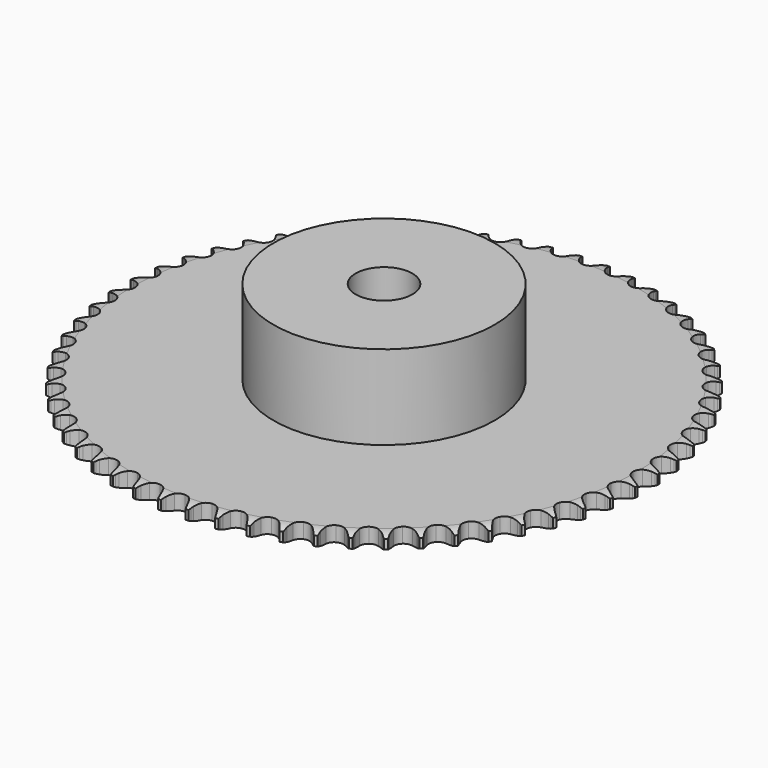
from build123d import *

# Parameters (mm, degrees)
PAD_DEPTH         = 5.3
SKETCH001_R       = 39
PAD001_DEPTH      = 35
SKETCH002_R       = 10
POCKET_DEPTH      = 0.001
POCKET_DEPTH_BACK = 35.001


with BuildPart() as part:
    # Sprocket → Pad (new body)
    with BuildSketch(Plane.XY):
        with BuildLine():
            ThreePointArc((-4.912376, 93.733715), (-4.417478, 92.997579), (-4.057731, 92.186775))
            Line((-4.057731, 92.186775), (-3.749626, 91.288578))
            ThreePointArc((-3.749626, 91.288578), (-3.262575, 90.152204), (-2.612296, 89.10068))
            ThreePointArc((-2.612296, 89.10068), (-1.465924, 88.121586), (0, 87.769649))
            ThreePointArc((0, 87.769649), (1.465924, 88.121586), (2.612296, 89.10068))
            ThreePointArc((2.612296, 89.10068), (3.262575, 90.152204), (3.749626, 91.288578))
            Line((3.749626, 91.288578), (4.057731, 92.186775))
            ThreePointArc((4.057731, 92.186775), (4.417478, 92.997579), (4.912376, 93.733715))
            ThreePointArc((4.912376, 93.733715), (5.327616, 92.949881), (5.600639, 92.105914))
            Line((5.600639, 92.105914), (5.81317, 91.180433))
            ThreePointArc((5.81317, 91.180433), (6.178769, 89.999373), (6.715572, 88.885636))
            ThreePointArc((6.715572, 88.885636), (7.75332, 87.792078), (9.174427, 87.288838))
            ThreePointArc((9.174427, 87.288838), (10.669107, 87.485616), (11.911542, 88.339518))
            Line((11.911542, 88.339518), (13.27134, 90.396547))
            ThreePointArc((13.27134, 90.396547), (13.459182, 90.832806), (13.671645, 91.257618))
            ThreePointArc((13.671645, 91.257618), (14.114172, 92.026376), (14.683307, 92.706749))
            ThreePointArc((14.683307, 92.706749), (15.014339, 91.883804), (15.197648, 91.015922))
            Line((15.197648, 91.015922), (15.312275, 90.073295))
            ThreePointArc((15.312275, 90.073295), (15.552417, 88.860489), (15.969862, 87.696743))
            ThreePointArc((15.969862, 87.696743), (16.887618, 86.500701), (18.248336, 85.851672))
            ThreePointArc((18.248336, 85.851672), (19.755398, 85.891135), (21.080284, 86.61049))
            Line((21.080284, 86.61049), (22.64765, 88.514113))
            ThreePointArc((22.64765, 88.514113), (22.880064, 88.928346), (23.135768, 89.328623))
            ThreePointArc((23.135768, 89.328623), (23.656229, 90.046913), (24.293364, 90.664068))
            ThreePointArc((24.293364, 90.664068), (24.536561, 89.811029), (24.628148, 88.928741))
            Line((24.628148, 88.928741), (24.643616, 87.979296))
            ThreePointArc((24.643616, 87.979296), (24.75567, 86.748032), (25.049184, 85.547026))
            ThreePointArc((25.049184, 85.547026), (25.836891, 84.261604), (27.122313, 83.473897))
            ThreePointArc((27.122313, 83.473897), (28.625244, 83.355613), (30.018065, 83.932539))
            Line((30.018065, 83.932539), (31.775828, 85.661899))
            ThreePointArc((31.775828, 85.661899), (32.050268, 86.04957), (32.346412, 86.420925))
            ThreePointArc((32.346412, 86.420925), (32.939103, 87.080878), (33.637258, 87.628053))
            ThreePointArc((33.637258, 87.628053), (33.789956, 86.754266), (33.788817, 85.867237))
            Line((33.788817, 85.867237), (33.704956, 84.921376))
            ThreePointArc((33.704956, 84.921376), (33.687694, 83.685145), (33.854061, 82.460038))
            ThreePointArc((33.854061, 82.460038), (34.50309, 81.09932), (35.699132, 80.181564))
            ThreePointArc((35.699132, 80.181564), (37.181466, 79.90683), (38.626962, 80.335005))
            Line((38.626962, 80.335005), (40.555864, 81.871156))
            ThreePointArc((40.555864, 81.871156), (40.869323, 82.228016), (41.202661, 82.566381))
            ThreePointArc((41.202661, 82.566381), (41.86109, 83.160766), (42.612615, 83.631966))
            ThreePointArc((42.612615, 83.631966), (42.673141, 82.747005), (42.579289, 81.864955))
            Line((42.579289, 81.864955), (42.397018, 80.933041))
            ThreePointArc((42.397018, 80.933041), (42.250629, 79.705386), (42.288026, 78.4696))
            ThreePointArc((42.288026, 78.4696), (42.791266, 77.048494), (43.884824, 76.010746))
            ThreePointArc((43.884824, 76.010746), (45.33032, 75.58257), (46.812654, 75.857305))
            Line((46.812654, 75.857305), (48.891561, 77.183415))
            ThreePointArc((48.891561, 77.183415), (49.240605, 77.505555), (49.607486, 77.807223))
            ThreePointArc((49.607486, 77.807223), (50.324437, 78.329527), (51.1211, 78.719591))
            ThreePointArc((51.1211, 78.719591), (51.088791, 77.83315), (50.903253, 76.965742))
            Line((50.903253, 76.965742), (50.624569, 76.057986))
            ThreePointArc((50.624569, 76.057986), (50.350657, 74.852359), (50.258674, 73.619433))
            ThreePointArc((50.258674, 73.619433), (50.610611, 72.153509), (51.589705, 71.007138))
            ThreePointArc((51.589705, 71.007138), (52.982526, 70.430212), (54.485457, 70.548496))
            Line((54.485457, 70.548496), (56.691591, 71.650036))
            ThreePointArc((56.691591, 71.650036), (57.072396, 71.933926), (57.4688, 72.195593))
            ThreePointArc((57.4688, 72.195593), (58.23642, 72.640093), (59.069491, 72.944746))
            ThreePointArc((59.069491, 72.944746), (58.944701, 72.066539), (58.66951, 71.223277))
            Line((58.66951, 71.223277), (58.297467, 70.349624))
            ThreePointArc((58.297467, 70.349624), (57.899033, 69.179233), (57.678678, 67.962676))
            ThreePointArc((57.678678, 67.962676), (57.875457, 66.467995), (58.729358, 65.22556))
            ThreePointArc((58.729358, 65.22556), (60.054244, 64.506206), (61.561306, 64.466742))
            Line((61.561306, 64.466742), (63.870497, 65.331645))
            ThreePointArc((63.870497, 65.331645), (64.27889, 65.574175), (64.700475, 65.792972))
            ThreePointArc((64.700475, 65.792972), (65.510352, 66.1548), (66.370704, 66.370704))
            ThreePointArc((66.370704, 66.370704), (66.1548, 65.510352), (65.792972, 64.700475))
            Line((65.792972, 64.700475), (65.331645, 63.870497))
            ThreePointArc((65.331645, 63.870497), (64.813055, 62.748165), (64.466742, 61.561306))
            ThreePointArc((64.466742, 61.561306), (64.506206, 60.054244), (65.22556, 58.729358))
            ThreePointArc((65.22556, 58.729358), (66.467995, 57.875457), (67.962676, 57.678678))
            Line((67.962676, 57.678678), (70.349624, 58.297467))
            ThreePointArc((70.349624, 58.297467), (70.781132, 58.495979), (71.223277, 58.66951))
            ThreePointArc((71.223277, 58.66951), (72.066539, 58.944701), (72.944746, 59.069491))
            ThreePointArc((72.944746, 59.069491), (72.640093, 58.23642), (72.195593, 57.4688))
            Line((72.195593, 57.4688), (71.650036, 56.691591))
            ThreePointArc((71.650036, 56.691591), (71.016971, 55.629615), (70.548496, 54.485457))
            ThreePointArc((70.548496, 54.485457), (70.430212, 52.982526), (71.007138, 51.589705))
            ThreePointArc((71.007138, 51.589705), (72.153509, 50.610611), (73.619433, 50.258674))
            Line((73.619433, 50.258674), (76.057986, 50.624569))
            ThreePointArc((76.057986, 50.624569), (76.50788, 50.776889), (76.965742, 50.903253))
            ThreePointArc((76.965742, 50.903253), (77.83315, 51.088791), (78.719591, 51.1211))
            ThreePointArc((78.719591, 51.1211), (78.329527, 50.324437), (77.807223, 49.607486))
            Line((77.807223, 49.607486), (77.183415, 48.891561))
            ThreePointArc((77.183415, 48.891561), (76.442811, 47.901575), (75.857305, 46.812654))
            ThreePointArc((75.857305, 46.812654), (75.58257, 45.33032), (76.010746, 43.884824))
            ThreePointArc((76.010746, 43.884824), (77.048494, 42.791266), (78.4696, 42.288026))
            Line((78.4696, 42.288026), (80.933041, 42.397018))
            ThreePointArc((80.933041, 42.397018), (81.396392, 42.501477), (81.864955, 42.579289))
            ThreePointArc((81.864955, 42.579289), (82.747005, 42.673141), (83.631966, 42.612615))
            ThreePointArc((83.631966, 42.612615), (83.160766, 41.86109), (82.566381, 41.202661))
            Line((82.566381, 41.202661), (81.871156, 40.555864))
            ThreePointArc((81.871156, 40.555864), (81.031127, 39.648716), (80.335005, 38.626962))
            ThreePointArc((80.335005, 38.626962), (79.90683, 37.181466), (80.181564, 35.699132))
            ThreePointArc((80.181564, 35.699132), (81.09932, 34.50309), (82.460038, 33.854061))
            Line((82.460038, 33.854061), (84.921376, 33.704956))
            ThreePointArc((84.921376, 33.704956), (85.393108, 33.76041), (85.867237, 33.788817))
            ThreePointArc((85.867237, 33.788817), (86.754266, 33.789956), (87.628053, 33.637258))
            ThreePointArc((87.628053, 33.637258), (87.080878, 32.939103), (86.420925, 32.346412))
            Line((86.420925, 32.346412), (85.661899, 31.775828))
            ThreePointArc((85.661899, 31.775828), (84.73165, 30.961457), (83.932539, 30.018065))
            ThreePointArc((83.932539, 30.018065), (83.355613, 28.625244), (83.473897, 27.122313))
            ThreePointArc((83.473897, 27.122313), (84.261604, 25.836891), (85.547026, 25.049184))
            Line((85.547026, 25.049184), (87.979296, 24.643616))
            ThreePointArc((87.979296, 24.643616), (88.454239, 24.649456), (88.928741, 24.628148))
            ThreePointArc((88.928741, 24.628148), (89.811029, 24.536561), (90.664068, 24.293364))
            ThreePointArc((90.664068, 24.293364), (90.046913, 23.656229), (89.328623, 23.135768))
            Line((89.328623, 23.135768), (88.514113, 22.64765))
            ThreePointArc((88.514113, 22.64765), (87.503834, 21.934977), (86.61049, 21.080284))
            ThreePointArc((86.61049, 21.080284), (85.891135, 19.755398), (85.851672, 18.248336))
            ThreePointArc((85.851672, 18.248336), (86.500701, 16.887618), (87.696743, 15.969862))
            Line((87.696743, 15.969862), (90.073295, 15.312275))
            ThreePointArc((90.073295, 15.312275), (90.546248, 15.268438), (91.015922, 15.197648))
            ThreePointArc((91.015922, 15.197648), (91.883804, 15.014339), (92.706749, 14.683307))
            ThreePointArc((92.706749, 14.683307), (92.026376, 14.114172), (91.257618, 13.671645))
            Line((91.257618, 13.671645), (90.396547, 13.27134))
            ThreePointArc((90.396547, 13.27134), (89.317309, 12.668174), (88.339518, 11.911542))
            ThreePointArc((88.339518, 11.911542), (87.485616, 10.669107), (87.288838, 9.174427))
            ThreePointArc((87.288838, 9.174427), (87.792078, 7.75332), (88.885636, 6.715572))
            Line((88.885636, 6.715572), (91.180433, 5.81317))
            ThreePointArc((91.180433, 5.81317), (91.646212, 5.720136), (92.105914, 5.600639))
            ThreePointArc((92.105914, 5.600639), (92.949881, 5.327616), (93.733715, 4.912376))
            ThreePointArc((93.733715, 4.912376), (92.997579, 4.417478), (92.186775, 4.057731))
            Line((92.186775, 4.057731), (91.288578, 3.749626))
            ThreePointArc((91.288578, 3.749626), (90.152204, 3.262575), (89.10068, 2.612296))
            ThreePointArc((89.10068, 2.612296), (88.121586, 1.465924), (87.769649, 0))
            ThreePointArc((87.769649, 0), (88.121586, -1.465924), (89.10068, -2.612296))
            Line((89.10068, -2.612296), (91.288578, -3.749626))
            ThreePointArc((91.288578, -3.749626), (91.742082, -3.890837), (92.186775, -4.057731))
            ThreePointArc((92.186775, -4.057731), (92.997579, -4.417478), (93.733715, -4.912376))
            ThreePointArc((93.733715, -4.912376), (92.949881, -5.327616), (92.105914, -5.600639))
            Line((92.105914, -5.600639), (91.180433, -5.81317))
            ThreePointArc((91.180433, -5.81317), (89.999373, -6.178769), (88.885636, -6.715572))
            ThreePointArc((88.885636, -6.715572), (87.792078, -7.75332), (87.288838, -9.174427))
            ThreePointArc((87.288838, -9.174427), (87.485616, -10.669107), (88.339518, -11.911542))
            Line((88.339518, -11.911542), (90.396547, -13.27134))
            ThreePointArc((90.396547, -13.27134), (90.832806, -13.459182), (91.257618, -13.671645))
            ThreePointArc((91.257618, -13.671645), (92.026376, -14.114172), (92.706749, -14.683307))
            ThreePointArc((92.706749, -14.683307), (91.883804, -15.014339), (91.015922, -15.197648))
            Line((91.015922, -15.197648), (90.073295, -15.312275))
            ThreePointArc((90.073295, -15.312275), (88.860489, -15.552417), (87.696743, -15.969862))
            ThreePointArc((87.696743, -15.969862), (86.500701, -16.887618), (85.851672, -18.248336))
            ThreePointArc((85.851672, -18.248336), (85.891135, -19.755398), (86.61049, -21.080284))
            Line((86.61049, -21.080284), (88.514113, -22.64765))
            ThreePointArc((88.514113, -22.64765), (88.928346, -22.880064), (89.328623, -23.135768))
            ThreePointArc((89.328623, -23.135768), (90.046913, -23.656229), (90.664068, -24.293364))
            ThreePointArc((90.664068, -24.293364), (89.811029, -24.536561), (88.928741, -24.628148))
            Line((88.928741, -24.628148), (87.979296, -24.643616))
            ThreePointArc((87.979296, -24.643616), (86.748032, -24.75567), (85.547026, -25.049184))
            ThreePointArc((85.547026, -25.049184), (84.261604, -25.836891), (83.473897, -27.122313))
            ThreePointArc((83.473897, -27.122313), (83.355613, -28.625244), (83.932539, -30.018065))
            Line((83.932539, -30.018065), (85.661899, -31.775828))
            ThreePointArc((85.661899, -31.775828), (86.04957, -32.050268), (86.420925, -32.346412))
            ThreePointArc((86.420925, -32.346412), (87.080878, -32.939103), (87.628053, -33.637258))
            ThreePointArc((87.628053, -33.637258), (86.754266, -33.789956), (85.867237, -33.788817))
            Line((85.867237, -33.788817), (84.921376, -33.704956))
            ThreePointArc((84.921376, -33.704956), (83.685145, -33.687694), (82.460038, -33.854061))
            ThreePointArc((82.460038, -33.854061), (81.09932, -34.50309), (80.181564, -35.699132))
            ThreePointArc((80.181564, -35.699132), (79.90683, -37.181466), (80.335005, -38.626962))
            Line((80.335005, -38.626962), (81.871156, -40.555864))
            ThreePointArc((81.871156, -40.555864), (82.228016, -40.869323), (82.566381, -41.202661))
            ThreePointArc((82.566381, -41.202661), (83.160766, -41.86109), (83.631966, -42.612615))
            ThreePointArc((83.631966, -42.612615), (82.747005, -42.673141), (81.864955, -42.579289))
            Line((81.864955, -42.579289), (80.933041, -42.397018))
            ThreePointArc((80.933041, -42.397018), (79.705386, -42.250629), (78.4696, -42.288026))
            ThreePointArc((78.4696, -42.288026), (77.048494, -42.791266), (76.010746, -43.884824))
            ThreePointArc((76.010746, -43.884824), (75.58257, -45.33032), (75.857305, -46.812654))
            Line((75.857305, -46.812654), (77.183415, -48.891561))
            ThreePointArc((77.183415, -48.891561), (77.505555, -49.240605), (77.807223, -49.607486))
            ThreePointArc((77.807223, -49.607486), (78.329527, -50.324437), (78.719591, -51.1211))
            ThreePointArc((78.719591, -51.1211), (77.83315, -51.088791), (76.965742, -50.903253))
            Line((76.965742, -50.903253), (76.057986, -50.624569))
            ThreePointArc((76.057986, -50.624569), (74.852359, -50.350657), (73.619433, -50.258674))
            ThreePointArc((73.619433, -50.258674), (72.153509, -50.610611), (71.007138, -51.589705))
            ThreePointArc((71.007138, -51.589705), (70.430212, -52.982526), (70.548496, -54.485457))
            Line((70.548496, -54.485457), (71.650036, -56.691591))
            ThreePointArc((71.650036, -56.691591), (71.933926, -57.072396), (72.195593, -57.4688))
            ThreePointArc((72.195593, -57.4688), (72.640093, -58.23642), (72.944746, -59.069491))
            ThreePointArc((72.944746, -59.069491), (72.066539, -58.944701), (71.223277, -58.66951))
            Line((71.223277, -58.66951), (70.349624, -58.297467))
            ThreePointArc((70.349624, -58.297467), (69.179233, -57.899033), (67.962676, -57.678678))
            ThreePointArc((67.962676, -57.678678), (66.467995, -57.875457), (65.22556, -58.729358))
            ThreePointArc((65.22556, -58.729358), (64.506206, -60.054244), (64.466742, -61.561306))
            Line((64.466742, -61.561306), (65.331645, -63.870497))
            ThreePointArc((65.331645, -63.870497), (65.574175, -64.27889), (65.792972, -64.700475))
            ThreePointArc((65.792972, -64.700475), (66.1548, -65.510352), (66.370704, -66.370704))
            ThreePointArc((66.370704, -66.370704), (65.510352, -66.1548), (64.700475, -65.792972))
            Line((64.700475, -65.792972), (63.870497, -65.331645))
            ThreePointArc((63.870497, -65.331645), (62.748165, -64.813055), (61.561306, -64.466742))
            ThreePointArc((61.561306, -64.466742), (60.054244, -64.506206), (58.729358, -65.22556))
            ThreePointArc((58.729358, -65.22556), (57.875457, -66.467995), (57.678678, -67.962676))
            Line((57.678678, -67.962676), (58.297467, -70.349624))
            ThreePointArc((58.297467, -70.349624), (58.495979, -70.781132), (58.66951, -71.223277))
            ThreePointArc((58.66951, -71.223277), (58.944701, -72.066539), (59.069491, -72.944746))
            ThreePointArc((59.069491, -72.944746), (58.23642, -72.640093), (57.4688, -72.195593))
            Line((57.4688, -72.195593), (56.691591, -71.650036))
            ThreePointArc((56.691591, -71.650036), (55.629615, -71.016971), (54.485457, -70.548496))
            ThreePointArc((54.485457, -70.548496), (52.982526, -70.430212), (51.589705, -71.007138))
            ThreePointArc((51.589705, -71.007138), (50.610611, -72.153509), (50.258674, -73.619433))
            Line((50.258674, -73.619433), (50.624569, -76.057986))
            ThreePointArc((50.624569, -76.057986), (50.776889, -76.50788), (50.903253, -76.965742))
            ThreePointArc((50.903253, -76.965742), (51.088791, -77.83315), (51.1211, -78.719591))
            ThreePointArc((51.1211, -78.719591), (50.324437, -78.329527), (49.607486, -77.807223))
            Line((49.607486, -77.807223), (48.891561, -77.183415))
            ThreePointArc((48.891561, -77.183415), (47.901575, -76.442811), (46.812654, -75.857305))
            ThreePointArc((46.812654, -75.857305), (45.33032, -75.58257), (43.884824, -76.010746))
            ThreePointArc((43.884824, -76.010746), (42.791266, -77.048494), (42.288026, -78.4696))
            Line((42.288026, -78.4696), (42.397018, -80.933041))
            ThreePointArc((42.397018, -80.933041), (42.501477, -81.396392), (42.579289, -81.864955))
            ThreePointArc((42.579289, -81.864955), (42.673141, -82.747005), (42.612615, -83.631966))
            ThreePointArc((42.612615, -83.631966), (41.86109, -83.160766), (41.202661, -82.566381))
            Line((41.202661, -82.566381), (40.555864, -81.871156))
            ThreePointArc((40.555864, -81.871156), (39.648716, -81.031127), (38.626962, -80.335005))
            ThreePointArc((38.626962, -80.335005), (37.181466, -79.90683), (35.699132, -80.181564))
            ThreePointArc((35.699132, -80.181564), (34.50309, -81.09932), (33.854061, -82.460038))
            Line((33.854061, -82.460038), (33.704956, -84.921376))
            ThreePointArc((33.704956, -84.921376), (33.76041, -85.393108), (33.788817, -85.867237))
            ThreePointArc((33.788817, -85.867237), (33.789956, -86.754266), (33.637258, -87.628053))
            ThreePointArc((33.637258, -87.628053), (32.939103, -87.080878), (32.346412, -86.420925))
            Line((32.346412, -86.420925), (31.775828, -85.661899))
            ThreePointArc((31.775828, -85.661899), (30.961457, -84.73165), (30.018065, -83.932539))
            ThreePointArc((30.018065, -83.932539), (28.625244, -83.355613), (27.122313, -83.473897))
            ThreePointArc((27.122313, -83.473897), (25.836891, -84.261604), (25.049184, -85.547026))
            Line((25.049184, -85.547026), (24.643616, -87.979296))
            ThreePointArc((24.643616, -87.979296), (24.649456, -88.454239), (24.628148, -88.928741))
            ThreePointArc((24.628148, -88.928741), (24.536561, -89.811029), (24.293364, -90.664068))
            ThreePointArc((24.293364, -90.664068), (23.656229, -90.046913), (23.135768, -89.328623))
            Line((23.135768, -89.328623), (22.64765, -88.514113))
            ThreePointArc((22.64765, -88.514113), (21.934977, -87.503834), (21.080284, -86.61049))
            ThreePointArc((21.080284, -86.61049), (19.755398, -85.891135), (18.248336, -85.851672))
            ThreePointArc((18.248336, -85.851672), (16.887618, -86.500701), (15.969862, -87.696743))
            Line((15.969862, -87.696743), (15.312275, -90.073295))
            ThreePointArc((15.312275, -90.073295), (15.268438, -90.546248), (15.197648, -91.015922))
            ThreePointArc((15.197648, -91.015922), (15.014339, -91.883804), (14.683307, -92.706749))
            ThreePointArc((14.683307, -92.706749), (14.114172, -92.026376), (13.671645, -91.257618))
            Line((13.671645, -91.257618), (13.27134, -90.396547))
            ThreePointArc((13.27134, -90.396547), (12.668174, -89.317309), (11.911542, -88.339518))
            ThreePointArc((11.911542, -88.339518), (10.669107, -87.485616), (9.174427, -87.288838))
            ThreePointArc((9.174427, -87.288838), (7.75332, -87.792078), (6.715572, -88.885636))
            Line((6.715572, -88.885636), (5.81317, -91.180433))
            ThreePointArc((5.81317, -91.180433), (5.720136, -91.646212), (5.600639, -92.105914))
            ThreePointArc((5.600639, -92.105914), (5.327616, -92.949881), (4.912376, -93.733715))
            ThreePointArc((4.912376, -93.733715), (4.417478, -92.997579), (4.057731, -92.186775))
            Line((4.057731, -92.186775), (3.749626, -91.288578))
            ThreePointArc((3.749626, -91.288578), (3.262575, -90.152204), (2.612296, -89.10068))
            ThreePointArc((2.612296, -89.10068), (1.465924, -88.121586), (0, -87.769649))
            ThreePointArc((0, -87.769649), (-1.465924, -88.121586), (-2.612296, -89.10068))
            Line((-2.612296, -89.10068), (-3.749626, -91.288578))
            ThreePointArc((-3.749626, -91.288578), (-3.890837, -91.742082), (-4.057731, -92.186775))
            ThreePointArc((-4.057731, -92.186775), (-4.417478, -92.997579), (-4.912376, -93.733715))
            ThreePointArc((-4.912376, -93.733715), (-5.327616, -92.949881), (-5.600639, -92.105914))
            Line((-5.600639, -92.105914), (-5.81317, -91.180433))
            ThreePointArc((-5.81317, -91.180433), (-6.178769, -89.999373), (-6.715572, -88.885636))
            ThreePointArc((-6.715572, -88.885636), (-7.75332, -87.792078), (-9.174427, -87.288838))
            ThreePointArc((-9.174427, -87.288838), (-10.669107, -87.485616), (-11.911542, -88.339518))
            Line((-11.911542, -88.339518), (-13.27134, -90.396547))
            ThreePointArc((-13.27134, -90.396547), (-13.459182, -90.832806), (-13.671645, -91.257618))
            ThreePointArc((-13.671645, -91.257618), (-14.114172, -92.026376), (-14.683307, -92.706749))
            ThreePointArc((-14.683307, -92.706749), (-15.014339, -91.883804), (-15.197648, -91.015922))
            Line((-15.197648, -91.015922), (-15.312275, -90.073295))
            ThreePointArc((-15.312275, -90.073295), (-15.552417, -88.860489), (-15.969862, -87.696743))
            ThreePointArc((-15.969862, -87.696743), (-16.887618, -86.500701), (-18.248336, -85.851672))
            ThreePointArc((-18.248336, -85.851672), (-19.755398, -85.891135), (-21.080284, -86.61049))
            Line((-21.080284, -86.61049), (-22.64765, -88.514113))
            ThreePointArc((-22.64765, -88.514113), (-22.880064, -88.928346), (-23.135768, -89.328623))
            ThreePointArc((-23.135768, -89.328623), (-23.656229, -90.046913), (-24.293364, -90.664068))
            ThreePointArc((-24.293364, -90.664068), (-24.536561, -89.811029), (-24.628148, -88.928741))
            Line((-24.628148, -88.928741), (-24.643616, -87.979296))
            ThreePointArc((-24.643616, -87.979296), (-24.75567, -86.748032), (-25.049184, -85.547026))
            ThreePointArc((-25.049184, -85.547026), (-25.836891, -84.261604), (-27.122313, -83.473897))
            ThreePointArc((-27.122313, -83.473897), (-28.625244, -83.355613), (-30.018065, -83.932539))
            Line((-30.018065, -83.932539), (-31.775828, -85.661899))
            ThreePointArc((-31.775828, -85.661899), (-32.050268, -86.04957), (-32.346412, -86.420925))
            ThreePointArc((-32.346412, -86.420925), (-32.939103, -87.080878), (-33.637258, -87.628053))
            ThreePointArc((-33.637258, -87.628053), (-33.789956, -86.754266), (-33.788817, -85.867237))
            Line((-33.788817, -85.867237), (-33.704956, -84.921376))
            ThreePointArc((-33.704956, -84.921376), (-33.687694, -83.685145), (-33.854061, -82.460038))
            ThreePointArc((-33.854061, -82.460038), (-34.50309, -81.09932), (-35.699132, -80.181564))
            ThreePointArc((-35.699132, -80.181564), (-37.181466, -79.90683), (-38.626962, -80.335005))
            Line((-38.626962, -80.335005), (-40.555864, -81.871156))
            ThreePointArc((-40.555864, -81.871156), (-40.869323, -82.228016), (-41.202661, -82.566381))
            ThreePointArc((-41.202661, -82.566381), (-41.86109, -83.160766), (-42.612615, -83.631966))
            ThreePointArc((-42.612615, -83.631966), (-42.673141, -82.747005), (-42.579289, -81.864955))
            Line((-42.579289, -81.864955), (-42.397018, -80.933041))
            ThreePointArc((-42.397018, -80.933041), (-42.250629, -79.705386), (-42.288026, -78.4696))
            ThreePointArc((-42.288026, -78.4696), (-42.791266, -77.048494), (-43.884824, -76.010746))
            ThreePointArc((-43.884824, -76.010746), (-45.33032, -75.58257), (-46.812654, -75.857305))
            Line((-46.812654, -75.857305), (-48.891561, -77.183415))
            ThreePointArc((-48.891561, -77.183415), (-49.240605, -77.505555), (-49.607486, -77.807223))
            ThreePointArc((-49.607486, -77.807223), (-50.324437, -78.329527), (-51.1211, -78.719591))
            ThreePointArc((-51.1211, -78.719591), (-51.088791, -77.83315), (-50.903253, -76.965742))
            Line((-50.903253, -76.965742), (-50.624569, -76.057986))
            ThreePointArc((-50.624569, -76.057986), (-50.350657, -74.852359), (-50.258674, -73.619433))
            ThreePointArc((-50.258674, -73.619433), (-50.610611, -72.153509), (-51.589705, -71.007138))
            ThreePointArc((-51.589705, -71.007138), (-52.982526, -70.430212), (-54.485457, -70.548496))
            Line((-54.485457, -70.548496), (-56.691591, -71.650036))
            ThreePointArc((-56.691591, -71.650036), (-57.072396, -71.933926), (-57.4688, -72.195593))
            ThreePointArc((-57.4688, -72.195593), (-58.23642, -72.640093), (-59.069491, -72.944746))
            ThreePointArc((-59.069491, -72.944746), (-58.944701, -72.066539), (-58.66951, -71.223277))
            Line((-58.66951, -71.223277), (-58.297467, -70.349624))
            ThreePointArc((-58.297467, -70.349624), (-57.899033, -69.179233), (-57.678678, -67.962676))
            ThreePointArc((-57.678678, -67.962676), (-57.875457, -66.467995), (-58.729358, -65.22556))
            ThreePointArc((-58.729358, -65.22556), (-60.054244, -64.506206), (-61.561306, -64.466742))
            Line((-61.561306, -64.466742), (-63.870497, -65.331645))
            ThreePointArc((-63.870497, -65.331645), (-64.27889, -65.574175), (-64.700475, -65.792972))
            ThreePointArc((-64.700475, -65.792972), (-65.510352, -66.1548), (-66.370704, -66.370704))
            ThreePointArc((-66.370704, -66.370704), (-66.1548, -65.510352), (-65.792972, -64.700475))
            Line((-65.792972, -64.700475), (-65.331645, -63.870497))
            ThreePointArc((-65.331645, -63.870497), (-64.813055, -62.748165), (-64.466742, -61.561306))
            ThreePointArc((-64.466742, -61.561306), (-64.506206, -60.054244), (-65.22556, -58.729358))
            ThreePointArc((-65.22556, -58.729358), (-66.467995, -57.875457), (-67.962676, -57.678678))
            Line((-67.962676, -57.678678), (-70.349624, -58.297467))
            ThreePointArc((-70.349624, -58.297467), (-70.781132, -58.495979), (-71.223277, -58.66951))
            ThreePointArc((-71.223277, -58.66951), (-72.066539, -58.944701), (-72.944746, -59.069491))
            ThreePointArc((-72.944746, -59.069491), (-72.640093, -58.23642), (-72.195593, -57.4688))
            Line((-72.195593, -57.4688), (-71.650036, -56.691591))
            ThreePointArc((-71.650036, -56.691591), (-71.016971, -55.629615), (-70.548496, -54.485457))
            ThreePointArc((-70.548496, -54.485457), (-70.430212, -52.982526), (-71.007138, -51.589705))
            ThreePointArc((-71.007138, -51.589705), (-72.153509, -50.610611), (-73.619433, -50.258674))
            Line((-73.619433, -50.258674), (-76.057986, -50.624569))
            ThreePointArc((-76.057986, -50.624569), (-76.50788, -50.776889), (-76.965742, -50.903253))
            ThreePointArc((-76.965742, -50.903253), (-77.83315, -51.088791), (-78.719591, -51.1211))
            ThreePointArc((-78.719591, -51.1211), (-78.329527, -50.324437), (-77.807223, -49.607486))
            Line((-77.807223, -49.607486), (-77.183415, -48.891561))
            ThreePointArc((-77.183415, -48.891561), (-76.442811, -47.901575), (-75.857305, -46.812654))
            ThreePointArc((-75.857305, -46.812654), (-75.58257, -45.33032), (-76.010746, -43.884824))
            ThreePointArc((-76.010746, -43.884824), (-77.048494, -42.791266), (-78.4696, -42.288026))
            Line((-78.4696, -42.288026), (-80.933041, -42.397018))
            ThreePointArc((-80.933041, -42.397018), (-81.396392, -42.501477), (-81.864955, -42.579289))
            ThreePointArc((-81.864955, -42.579289), (-82.747005, -42.673141), (-83.631966, -42.612615))
            ThreePointArc((-83.631966, -42.612615), (-83.160766, -41.86109), (-82.566381, -41.202661))
            Line((-82.566381, -41.202661), (-81.871156, -40.555864))
            ThreePointArc((-81.871156, -40.555864), (-81.031127, -39.648716), (-80.335005, -38.626962))
            ThreePointArc((-80.335005, -38.626962), (-79.90683, -37.181466), (-80.181564, -35.699132))
            ThreePointArc((-80.181564, -35.699132), (-81.09932, -34.50309), (-82.460038, -33.854061))
            Line((-82.460038, -33.854061), (-84.921376, -33.704956))
            ThreePointArc((-84.921376, -33.704956), (-85.393108, -33.76041), (-85.867237, -33.788817))
            ThreePointArc((-85.867237, -33.788817), (-86.754266, -33.789956), (-87.628053, -33.637258))
            ThreePointArc((-87.628053, -33.637258), (-87.080878, -32.939103), (-86.420925, -32.346412))
            Line((-86.420925, -32.346412), (-85.661899, -31.775828))
            ThreePointArc((-85.661899, -31.775828), (-84.73165, -30.961457), (-83.932539, -30.018065))
            ThreePointArc((-83.932539, -30.018065), (-83.355613, -28.625244), (-83.473897, -27.122313))
            ThreePointArc((-83.473897, -27.122313), (-84.261604, -25.836891), (-85.547026, -25.049184))
            Line((-85.547026, -25.049184), (-87.979296, -24.643616))
            ThreePointArc((-87.979296, -24.643616), (-88.454239, -24.649456), (-88.928741, -24.628148))
            ThreePointArc((-88.928741, -24.628148), (-89.811029, -24.536561), (-90.664068, -24.293364))
            ThreePointArc((-90.664068, -24.293364), (-90.046913, -23.656229), (-89.328623, -23.135768))
            Line((-89.328623, -23.135768), (-88.514113, -22.64765))
            ThreePointArc((-88.514113, -22.64765), (-87.503834, -21.934977), (-86.61049, -21.080284))
            ThreePointArc((-86.61049, -21.080284), (-85.891135, -19.755398), (-85.851672, -18.248336))
            ThreePointArc((-85.851672, -18.248336), (-86.500701, -16.887618), (-87.696743, -15.969862))
            Line((-87.696743, -15.969862), (-90.073295, -15.312275))
            ThreePointArc((-90.073295, -15.312275), (-90.546248, -15.268438), (-91.015922, -15.197648))
            ThreePointArc((-91.015922, -15.197648), (-91.883804, -15.014339), (-92.706749, -14.683307))
            ThreePointArc((-92.706749, -14.683307), (-92.026376, -14.114172), (-91.257618, -13.671645))
            Line((-91.257618, -13.671645), (-90.396547, -13.27134))
            ThreePointArc((-90.396547, -13.27134), (-89.317309, -12.668174), (-88.339518, -11.911542))
            ThreePointArc((-88.339518, -11.911542), (-87.485616, -10.669107), (-87.288838, -9.174427))
            ThreePointArc((-87.288838, -9.174427), (-87.792078, -7.75332), (-88.885636, -6.715572))
            Line((-88.885636, -6.715572), (-91.180433, -5.81317))
            ThreePointArc((-91.180433, -5.81317), (-91.646212, -5.720136), (-92.105914, -5.600639))
            ThreePointArc((-92.105914, -5.600639), (-92.949881, -5.327616), (-93.733715, -4.912376))
            ThreePointArc((-93.733715, -4.912376), (-92.997579, -4.417478), (-92.186775, -4.057731))
            Line((-92.186775, -4.057731), (-91.288578, -3.749626))
            ThreePointArc((-91.288578, -3.749626), (-90.152204, -3.262575), (-89.10068, -2.612296))
            ThreePointArc((-89.10068, -2.612296), (-88.121586, -1.465924), (-87.769649, 0))
            ThreePointArc((-87.769649, 0), (-88.121586, 1.465924), (-89.10068, 2.612296))
            Line((-89.10068, 2.612296), (-91.288578, 3.749626))
            ThreePointArc((-91.288578, 3.749626), (-91.742082, 3.890837), (-92.186775, 4.057731))
            ThreePointArc((-92.186775, 4.057731), (-92.997579, 4.417478), (-93.733715, 4.912376))
            ThreePointArc((-93.733715, 4.912376), (-92.949881, 5.327616), (-92.105914, 5.600639))
            Line((-92.105914, 5.600639), (-91.180433, 5.81317))
            ThreePointArc((-91.180433, 5.81317), (-89.999373, 6.178769), (-88.885636, 6.715572))
            ThreePointArc((-88.885636, 6.715572), (-87.792078, 7.75332), (-87.288838, 9.174427))
            ThreePointArc((-87.288838, 9.174427), (-87.485616, 10.669107), (-88.339518, 11.911542))
            Line((-88.339518, 11.911542), (-90.396547, 13.27134))
            ThreePointArc((-90.396547, 13.27134), (-90.832806, 13.459182), (-91.257618, 13.671645))
            ThreePointArc((-91.257618, 13.671645), (-92.026376, 14.114172), (-92.706749, 14.683307))
            ThreePointArc((-92.706749, 14.683307), (-91.883804, 15.014339), (-91.015922, 15.197648))
            Line((-91.015922, 15.197648), (-90.073295, 15.312275))
            ThreePointArc((-90.073295, 15.312275), (-88.860489, 15.552417), (-87.696743, 15.969862))
            ThreePointArc((-87.696743, 15.969862), (-86.500701, 16.887618), (-85.851672, 18.248336))
            ThreePointArc((-85.851672, 18.248336), (-85.891135, 19.755398), (-86.61049, 21.080284))
            Line((-86.61049, 21.080284), (-88.514113, 22.64765))
            ThreePointArc((-88.514113, 22.64765), (-88.928346, 22.880064), (-89.328623, 23.135768))
            ThreePointArc((-89.328623, 23.135768), (-90.046913, 23.656229), (-90.664068, 24.293364))
            ThreePointArc((-90.664068, 24.293364), (-89.811029, 24.536561), (-88.928741, 24.628148))
            Line((-88.928741, 24.628148), (-87.979296, 24.643616))
            ThreePointArc((-87.979296, 24.643616), (-86.748032, 24.75567), (-85.547026, 25.049184))
            ThreePointArc((-85.547026, 25.049184), (-84.261604, 25.836891), (-83.473897, 27.122313))
            ThreePointArc((-83.473897, 27.122313), (-83.355613, 28.625244), (-83.932539, 30.018065))
            Line((-83.932539, 30.018065), (-85.661899, 31.775828))
            ThreePointArc((-85.661899, 31.775828), (-86.04957, 32.050268), (-86.420925, 32.346412))
            ThreePointArc((-86.420925, 32.346412), (-87.080878, 32.939103), (-87.628053, 33.637258))
            ThreePointArc((-87.628053, 33.637258), (-86.754266, 33.789956), (-85.867237, 33.788817))
            Line((-85.867237, 33.788817), (-84.921376, 33.704956))
            ThreePointArc((-84.921376, 33.704956), (-83.685145, 33.687694), (-82.460038, 33.854061))
            ThreePointArc((-82.460038, 33.854061), (-81.09932, 34.50309), (-80.181564, 35.699132))
            ThreePointArc((-80.181564, 35.699132), (-79.90683, 37.181466), (-80.335005, 38.626962))
            Line((-80.335005, 38.626962), (-81.871156, 40.555864))
            ThreePointArc((-81.871156, 40.555864), (-82.228016, 40.869323), (-82.566381, 41.202661))
            ThreePointArc((-82.566381, 41.202661), (-83.160766, 41.86109), (-83.631966, 42.612615))
            ThreePointArc((-83.631966, 42.612615), (-82.747005, 42.673141), (-81.864955, 42.579289))
            Line((-81.864955, 42.579289), (-80.933041, 42.397018))
            ThreePointArc((-80.933041, 42.397018), (-79.705386, 42.250629), (-78.4696, 42.288026))
            ThreePointArc((-78.4696, 42.288026), (-77.048494, 42.791266), (-76.010746, 43.884824))
            ThreePointArc((-76.010746, 43.884824), (-75.58257, 45.33032), (-75.857305, 46.812654))
            Line((-75.857305, 46.812654), (-77.183415, 48.891561))
            ThreePointArc((-77.183415, 48.891561), (-77.505555, 49.240605), (-77.807223, 49.607486))
            ThreePointArc((-77.807223, 49.607486), (-78.329527, 50.324437), (-78.719591, 51.1211))
            ThreePointArc((-78.719591, 51.1211), (-77.83315, 51.088791), (-76.965742, 50.903253))
            Line((-76.965742, 50.903253), (-76.057986, 50.624569))
            ThreePointArc((-76.057986, 50.624569), (-74.852359, 50.350657), (-73.619433, 50.258674))
            ThreePointArc((-73.619433, 50.258674), (-72.153509, 50.610611), (-71.007138, 51.589705))
            ThreePointArc((-71.007138, 51.589705), (-70.430212, 52.982526), (-70.548496, 54.485457))
            Line((-70.548496, 54.485457), (-71.650036, 56.691591))
            ThreePointArc((-71.650036, 56.691591), (-71.933926, 57.072396), (-72.195593, 57.4688))
            ThreePointArc((-72.195593, 57.4688), (-72.640093, 58.23642), (-72.944746, 59.069491))
            ThreePointArc((-72.944746, 59.069491), (-72.066539, 58.944701), (-71.223277, 58.66951))
            Line((-71.223277, 58.66951), (-70.349624, 58.297467))
            ThreePointArc((-70.349624, 58.297467), (-69.179233, 57.899033), (-67.962676, 57.678678))
            ThreePointArc((-67.962676, 57.678678), (-66.467995, 57.875457), (-65.22556, 58.729358))
            ThreePointArc((-65.22556, 58.729358), (-64.506206, 60.054244), (-64.466742, 61.561306))
            Line((-64.466742, 61.561306), (-65.331645, 63.870497))
            ThreePointArc((-65.331645, 63.870497), (-65.574175, 64.27889), (-65.792972, 64.700475))
            ThreePointArc((-65.792972, 64.700475), (-66.1548, 65.510352), (-66.370704, 66.370704))
            ThreePointArc((-66.370704, 66.370704), (-65.510352, 66.1548), (-64.700475, 65.792972))
            Line((-64.700475, 65.792972), (-63.870497, 65.331645))
            ThreePointArc((-63.870497, 65.331645), (-62.748165, 64.813055), (-61.561306, 64.466742))
            ThreePointArc((-61.561306, 64.466742), (-60.054244, 64.506206), (-58.729358, 65.22556))
            ThreePointArc((-58.729358, 65.22556), (-57.875457, 66.467995), (-57.678678, 67.962676))
            Line((-57.678678, 67.962676), (-58.297467, 70.349624))
            ThreePointArc((-58.297467, 70.349624), (-58.495979, 70.781132), (-58.66951, 71.223277))
            ThreePointArc((-58.66951, 71.223277), (-58.944701, 72.066539), (-59.069491, 72.944746))
            ThreePointArc((-59.069491, 72.944746), (-58.23642, 72.640093), (-57.4688, 72.195593))
            Line((-57.4688, 72.195593), (-56.691591, 71.650036))
            ThreePointArc((-56.691591, 71.650036), (-55.629615, 71.016971), (-54.485457, 70.548496))
            ThreePointArc((-54.485457, 70.548496), (-52.982526, 70.430212), (-51.589705, 71.007138))
            ThreePointArc((-51.589705, 71.007138), (-50.610611, 72.153509), (-50.258674, 73.619433))
            Line((-50.258674, 73.619433), (-50.624569, 76.057986))
            ThreePointArc((-50.624569, 76.057986), (-50.776889, 76.50788), (-50.903253, 76.965742))
            ThreePointArc((-50.903253, 76.965742), (-51.088791, 77.83315), (-51.1211, 78.719591))
            ThreePointArc((-51.1211, 78.719591), (-50.324437, 78.329527), (-49.607486, 77.807223))
            Line((-49.607486, 77.807223), (-48.891561, 77.183415))
            ThreePointArc((-48.891561, 77.183415), (-47.901575, 76.442811), (-46.812654, 75.857305))
            ThreePointArc((-46.812654, 75.857305), (-45.33032, 75.58257), (-43.884824, 76.010746))
            ThreePointArc((-43.884824, 76.010746), (-42.791266, 77.048494), (-42.288026, 78.4696))
            Line((-42.288026, 78.4696), (-42.397018, 80.933041))
            ThreePointArc((-42.397018, 80.933041), (-42.501477, 81.396392), (-42.579289, 81.864955))
            ThreePointArc((-42.579289, 81.864955), (-42.673141, 82.747005), (-42.612615, 83.631966))
            ThreePointArc((-42.612615, 83.631966), (-41.86109, 83.160766), (-41.202661, 82.566381))
            Line((-41.202661, 82.566381), (-40.555864, 81.871156))
            ThreePointArc((-40.555864, 81.871156), (-39.648716, 81.031127), (-38.626962, 80.335005))
            ThreePointArc((-38.626962, 80.335005), (-37.181466, 79.90683), (-35.699132, 80.181564))
            ThreePointArc((-35.699132, 80.181564), (-34.50309, 81.09932), (-33.854061, 82.460038))
            Line((-33.854061, 82.460038), (-33.704956, 84.921376))
            ThreePointArc((-33.704956, 84.921376), (-33.76041, 85.393108), (-33.788817, 85.867237))
            ThreePointArc((-33.788817, 85.867237), (-33.789956, 86.754266), (-33.637258, 87.628053))
            ThreePointArc((-33.637258, 87.628053), (-32.939103, 87.080878), (-32.346412, 86.420925))
            Line((-32.346412, 86.420925), (-31.775828, 85.661899))
            ThreePointArc((-31.775828, 85.661899), (-30.961457, 84.73165), (-30.018065, 83.932539))
            ThreePointArc((-30.018065, 83.932539), (-28.625244, 83.355613), (-27.122313, 83.473897))
            ThreePointArc((-27.122313, 83.473897), (-25.836891, 84.261604), (-25.049184, 85.547026))
            Line((-25.049184, 85.547026), (-24.643616, 87.979296))
            ThreePointArc((-24.643616, 87.979296), (-24.649456, 88.454239), (-24.628148, 88.928741))
            ThreePointArc((-24.628148, 88.928741), (-24.536561, 89.811029), (-24.293364, 90.664068))
            ThreePointArc((-24.293364, 90.664068), (-23.656229, 90.046913), (-23.135768, 89.328623))
            Line((-23.135768, 89.328623), (-22.64765, 88.514113))
            ThreePointArc((-22.64765, 88.514113), (-21.934977, 87.503834), (-21.080284, 86.61049))
            ThreePointArc((-21.080284, 86.61049), (-19.755398, 85.891135), (-18.248336, 85.851672))
            ThreePointArc((-18.248336, 85.851672), (-16.887618, 86.500701), (-15.969862, 87.696743))
            Line((-15.969862, 87.696743), (-15.312275, 90.073295))
            ThreePointArc((-15.312275, 90.073295), (-15.268438, 90.546248), (-15.197648, 91.015922))
            ThreePointArc((-15.197648, 91.015922), (-15.014339, 91.883804), (-14.683307, 92.706749))
            ThreePointArc((-14.683307, 92.706749), (-14.114172, 92.026376), (-13.671645, 91.257618))
            Line((-13.671645, 91.257618), (-13.27134, 90.396547))
            ThreePointArc((-13.27134, 90.396547), (-12.668174, 89.317309), (-11.911542, 88.339518))
            ThreePointArc((-11.911542, 88.339518), (-10.669107, 87.485616), (-9.174427, 87.288838))
            ThreePointArc((-9.174427, 87.288838), (-7.75332, 87.792078), (-6.715572, 88.885636))
            Line((-6.715572, 88.885636), (-5.81317, 91.180433))
            ThreePointArc((-5.81317, 91.180433), (-5.720136, 91.646212), (-5.600639, 92.105914))
            ThreePointArc((-5.600639, 92.105914), (-5.327616, 92.949881), (-4.912376, 93.733715))
        make_face()
    extrude(amount=PAD_DEPTH)

    # Sketch → Groove (revolve, cut)
    with BuildSketch(Plane.XZ):
        with BuildLine():
            Line((88.641101, 0), (93, 0))
            Line((97.358899, 0), (93, 0))
            Line((97.358899, 5.3), (97.358899, 0))
            Line((93, 5.3), (97.358899, 5.3))
            Line((88.641101, 5.3), (93, 5.3))
            ThreePointArc((93, 4.3), (90.877169, 5.046794), (88.641101, 5.3))
            Line((93, 1), (93, 4.3))
            ThreePointArc((88.641101, 0), (90.877169, 0.253206), (93, 1))
        make_face()
    revolve(axis=Axis((0, 0, 0), (0, 0, 1)), mode=Mode.SUBTRACT)

    # Sketch001 → Pad001 (join)
    with BuildSketch(Plane.XY):
        Circle(SKETCH001_R)
    extrude(amount=PAD001_DEPTH)

    # Sketch002 → Pocket (cut, two sides)
    with BuildSketch(Plane.XY) as pocket_sk:
        Circle(SKETCH002_R)
    extrude(amount=-POCKET_DEPTH, mode=Mode.SUBTRACT)
    extrude(pocket_sk.sketch, amount=POCKET_DEPTH_BACK, mode=Mode.SUBTRACT)


solid = part.part
